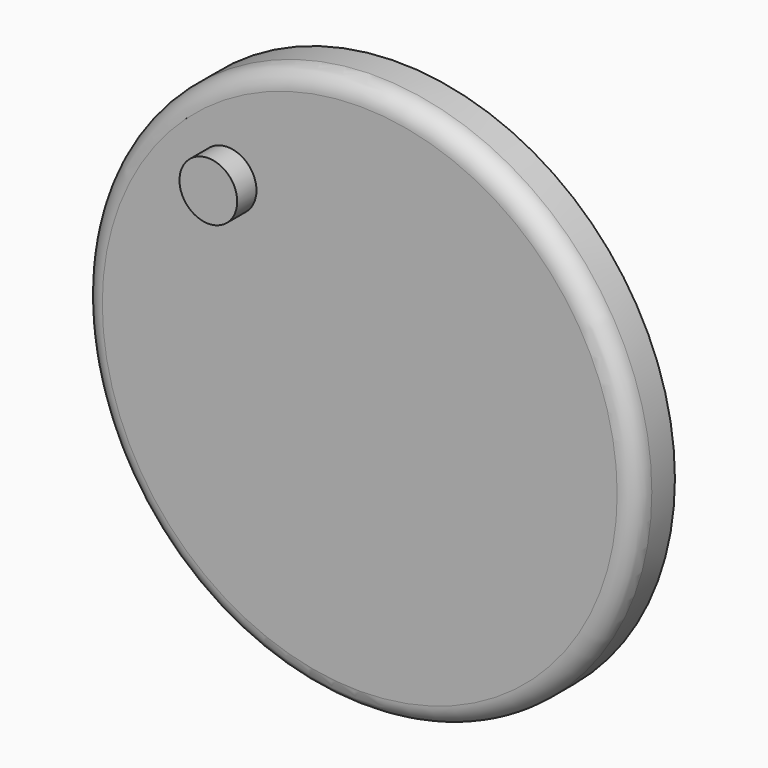
from build123d import *

# Parameters (mm, degrees)
F0_R     = 73.025
F0_R_2   = 7.62
F1_DEPTH = 12.7
F2_R     = 5.08
F3_DEPTH = 19.05


with BuildPart() as f1:
    # F0 (on Front) → F1 (new body)
    with BuildSketch(Plane.XZ):
        Circle(F0_R)
        with Locations((-34.87542, 39.516099)):
            Circle(F0_R_2, mode=Mode.SUBTRACT)
    extrude(amount=F1_DEPTH)

    # F2
    f2_edges = [f1.edges().sort_by_distance(p)[0] for p in [
        (-73.025, -12.7, 0),
    ]]
    fillet(f2_edges, radius=F2_R)

    # F0 (on Front) → F3 (join)
    with BuildSketch(Plane.XZ):
        with Locations((-34.87542, 39.516099)):
            Circle(F0_R_2)
    extrude(amount=F3_DEPTH)


solid = f1.part
